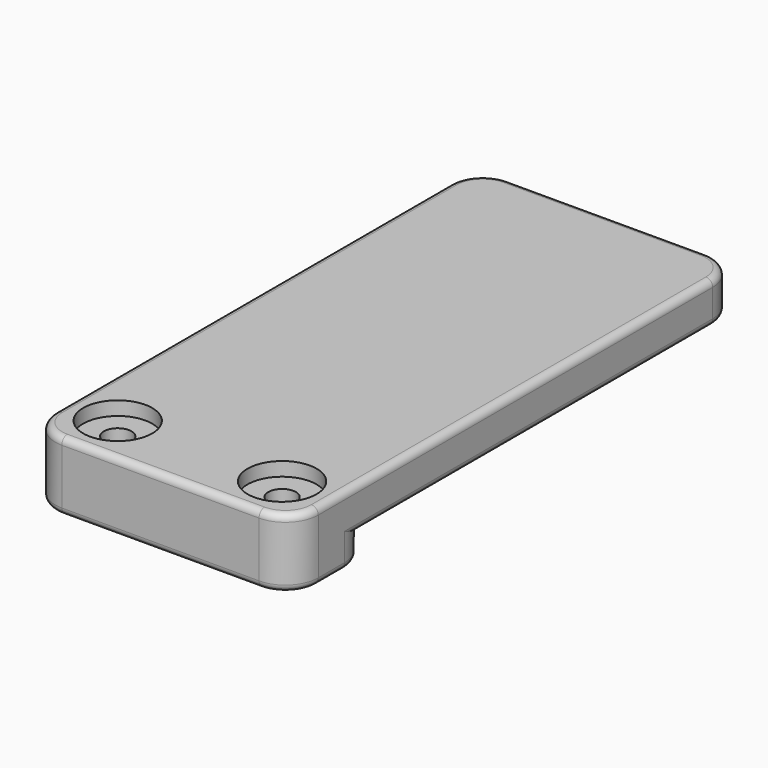
from build123d import *

# Parameters (mm, degrees)
SKETCH007_W     = 19.05
SKETCH007_H     = 40.48125
SKETCH007_R     = 1
PAD002_DEPTH    = 5
SKETCH008_W     = 33.3375
SKETCH008_H     = 2
POCKET006_DEPTH = 19.051
SKETCH009_R     = 2.5
POCKET007_DEPTH = 1
FILLET006_R     = 2.38125
FILLET007_R     = 0.5


with BuildPart() as part:
    # Sketch007 → Pad002 (new body)
    with BuildSketch(Plane.XY):
        with Locations((9.525, 55.959375)):
            Rectangle(SKETCH007_W, SKETCH007_H)
        with Locations((3.571875, 39.290625)):
            Circle(SKETCH007_R, mode=Mode.SUBTRACT)
        with Locations((15.478125, 39.290625)):
            Circle(SKETCH007_R, mode=Mode.SUBTRACT)
    extrude(amount=PAD002_DEPTH)

    # Sketch008 (on Face3 of Pad002) → Pocket006 (cut, through all)
    with BuildSketch(Plane(origin=(0, 0, 0), x_dir=(0, -1, 0), z_dir=(-1, 0, 0))):
        with Locations((-59.53125, 1)):
            Rectangle(SKETCH008_W, SKETCH008_H)
    extrude(amount=-POCKET006_DEPTH, mode=Mode.SUBTRACT)

    # Sketch009 (on Face6 of Pocket006) → Pocket007 (cut)
    with BuildSketch(Plane.XY.offset(5)):
        with Locations((3.571875, 39.290625)):
            Circle(SKETCH009_R)
        with Locations((15.478125, 39.290625)):
            Circle(SKETCH009_R)
    extrude(amount=-POCKET007_DEPTH, mode=Mode.SUBTRACT)

    # Fillet006
    fillet006_edges = [part.edges().sort_by_distance(p)[0] for p in [
        (0, 76.2, 3.5),
        (0, 35.71875, 2.5),
        (19.05, 35.71875, 2.5),
        (19.05, 76.2, 3.5),
        (19.05, 42.8625, 1),
        (0, 42.8625, 1),
    ]]
    fillet(fillet006_edges, radius=FILLET006_R)

    # Fillet007
    fillet007_edges = [part.edges().sort_by_distance(p)[0] for p in [
        (0, 58.340625, 2),
        (9.525, 35.71875, 0),
        (0, 55.959375, 5),
    ]]
    fillet(fillet007_edges, radius=FILLET007_R)


with BuildPart() as part_1:
    # Body002 placement: moved
    add(part.part.moved(Location((4, 4, 13))))


solid = part_1.part
